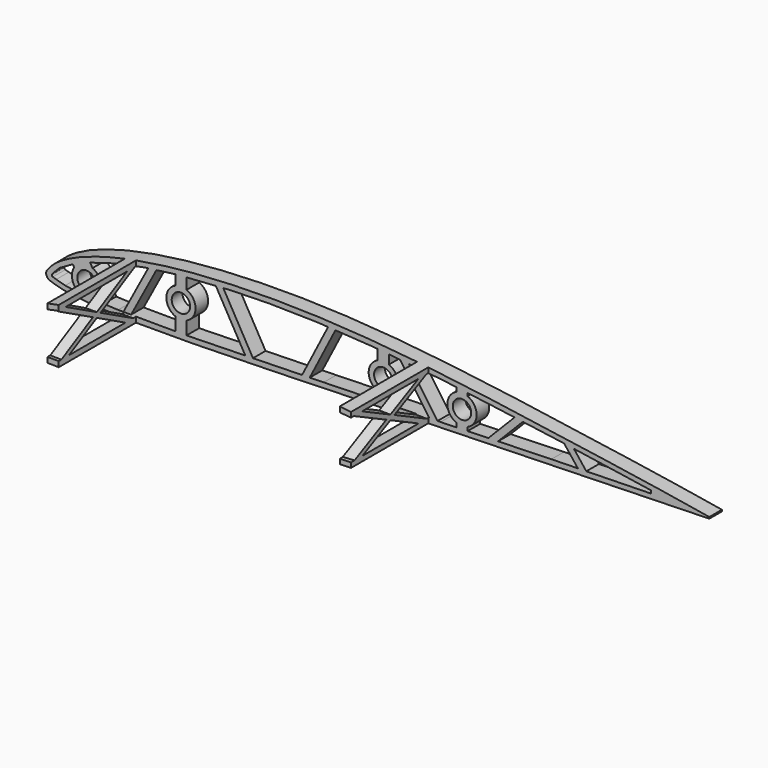
from build123d import *

# Parameters (mm, degrees)
PAD101_DEPTH    = 49.95
POCKET122_DEPTH = 49.95
SKETCH226_W     = 89.545105
SKETCH226_H     = 96.443817
POCKET123_DEPTH = 2.5
SKETCH228_W     = 45
SKETCH228_H     = 60
SKETCH228_W_2   = 125
SKETCH228_W_3   = 130
POCKET124_DEPTH = 50
SKETCH227_R     = 4.1
PAD102_DEPTH    = 7
PAD103_DEPTH    = 5
PAD104_DEPTH    = 5
CHAMFER006_SIZE = 1


with BuildPart() as part:
    # Sketch224 → Pad101 (new body)
    with BuildSketch(Plane.XZ):
        with BuildLine():
            add(Edge.make_bspline(
                [(299.999063, 0.026825), (299.662766, 0.037193), (298.339429, 0.190401), (295.439956, 0.589669), (290.775356, 1.337839), (284.500044, 2.393262), (276.735212, 3.66473), (267.577355, 5.083019), (257.136483, 6.653879), (245.549215, 8.381993), (232.975291, 10.222771), (219.590016, 12.153256), (205.573823, 14.115503), (191.111579, 16.055183), (176.381713, 17.897983), (161.544489, 19.553409), (146.739309, 20.940939), (132.087536, 21.99009), (117.705275, 22.664279), (103.703346, 22.961168), (90.192549, 22.858072), (77.284675, 22.375726), (65.094168, 21.544938), (53.730431, 20.369385), (43.29002, 18.857963), (33.852484, 17.043697), (25.485501, 14.967735), (18.252292, 12.67281), (12.179436, 10.224412), (7.338355, 7.689021), (3.623023, 5.152403), (1.3546, 2.748114), (-0.314638, 0.590402), (0.575789, -1.804065), (3.482069, -2.72942), (7.386052, -3.91761), (13.030922, -4.754284), (20.096342, -5.463024), (28.645402, -5.933379), (38.56853, -6.201185), (49.790194, -6.284208), (62.196701, -6.193111), (75.660953, -5.967607), (90.034637, -5.629522), (105.153445, -5.226063), (120.83724, -4.775199), (136.895942, -4.296045), (153.13493, -3.818601), (169.356828, -3.345106), (185.36574, -2.889379), (200.968742, -2.465331), (215.974941, -2.074889), (230.201502, -1.715375), (243.47905, -1.394255), (255.639348, -1.103787), (266.55871, -0.849968), (276.034544, -0.603524), (284.209012, -0.340437), (290.324953, -0.117215), (295.955653, 0.018504), (297.364702, 0.013759), (300.343856, 0.01512), (300.000055, 0.026794), (299.999063, 0.026825)],
                knots=[0, 0, 0, 0, 1.017748, 3.99659, 8.779341, 15.189917, 23.087031, 32.383824, 42.990765, 54.76218, 67.530065, 81.114584, 95.333435, 109.988542, 124.889458, 139.866624, 154.774633, 169.496697, 183.930349, 197.964304, 211.506735, 224.45797, 236.709214, 248.156653, 258.723012, 268.346769, 276.97692, 284.567784, 291.102108, 296.573756, 300.992679, 304.39163, 306.761357, 308.43213, 311.131254, 315.298227, 320.951765, 328.080828, 336.654655, 346.609821, 357.866231, 370.316475, 383.83025, 398.264023, 413.449345, 429.202773, 445.334827, 461.646891, 477.940787, 494.021253, 509.693044, 524.767168, 539.054704, 552.387642, 564.607107, 575.560217, 585.109622, 593.180747, 599.700326, 604.53767, 607.540683, 608.560842, 608.563842, 608.563842, 608.563842, 608.563842], degree=3))
        make_face()
    extrude(amount=PAD101_DEPTH)

    # Sketch225 (on Face3 of Pad101) → Pocket122 (cut)
    with BuildSketch(Plane.XZ.offset(49.95)):
        with BuildLine():
            Line((2.713263, 0.775372), (3.386703, 1.523026))
            Line((3.386703, 1.523026), (5.993214, 4.179621))
            Line((5.993214, 4.179621), (11.230826, 7.180706))
            Line((11.230826, 7.180706), (18.928726, 10.492708))
            Line((18.928726, 10.492708), (30.015602, 13.804502))
            Line((30.015602, 13.804502), (43.705284, 16.658491))
            Line((43.705284, 16.658491), (58.37534, 18.58366))
            Line((58.37534, 18.58366), (81.932846, 20.199753))
            Line((81.932846, 20.199753), (99.115959, 20.581533))
            Line((99.115959, 20.581533), (120.506348, 20.199753))
            Line((120.506348, 20.199753), (145.772324, 18.655943))
            Line((145.772324, 18.655943), (175.747543, 15.772772))
            Line((175.747543, 15.772772), (200.435547, 12.569891))
            Line((200.435547, 12.569891), (229.384109, 8.602522))
            Line((229.384109, 8.602522), (252.135086, 5.213018))
            Line((252.135086, 5.213018), (269.069916, 2.671427))
            Line((269.069916, 2.671427), (269.069916, 1.39956))
            Line((269.069916, 1.39956), (224.761032, 0.436598))
            Line((224.761032, 0.436598), (175.486649, -1.027315))
            Line((175.486649, -1.027315), (123.47789, -2.412929))
            Line((123.47789, -2.412929), (62.077515, -3.876549))
            Line((62.077515, -3.876549), (32.052879, -3.760909))
            Line((32.052879, -3.760909), (18.887957, -3.18288))
            Line((18.887957, -3.18288), (12.728564, -2.489715))
            Line((12.728564, -2.489715), (8.493419, -1.872198))
            Line((8.493419, -1.872198), (4.562357, -0.768246))
            Line((4.562357, -0.768246), (3.013953, -0.301296))
            ThreePointArc((2.713263, 0.775372), (2.567567, 0.15436), (3.013953, -0.301296))
        make_face()
    extrude(amount=-POCKET122_DEPTH, mode=Mode.SUBTRACT)

    # Sketch226 → Pocket123 (cut, symmetric)
    with BuildSketch(Plane.XY):
        with Locations((339.772552, -30.852761)):
            Rectangle(SKETCH226_W, SKETCH226_H)
    extrude(amount=POCKET123_DEPTH, both=True, mode=Mode.SUBTRACT)

    # Sketch228 → Pocket124 (cut, symmetric)
    with BuildSketch(Plane.XY):
        with Locations((12.5, -37)):
            Rectangle(SKETCH228_W, SKETCH228_H)
        with Locations((102.5, -37)):
            Rectangle(SKETCH228_W_2, SKETCH228_H)
        with Locations((235, -37)):
            Rectangle(SKETCH228_W_3, SKETCH228_H)
    extrude(amount=POCKET124_DEPTH, both=True, mode=Mode.SUBTRACT)

    # Sketch227 (on Face16 of Pocket124) → Pad102 (join)
    with BuildSketch(Plane.XZ.offset(7)):
        Polygon((45.883972, 17.721869), (33.929979, -4.654965), (37.331221, -4.654965), (49.864502, 18.806244), align=None)
        with BuildLine():
            ThreePointArc((12.49229, 6.45183), (11.877033, 0.818423), (15.915785, -3.156789))
            Line((15.915785, -3.156789), (16.615922, -4.582716))
            Line((16.615922, -4.582716), (26.093039, -4.582716))
            Line((23.927186, 0.331954), (26.093039, -4.582716))
            ThreePointArc((23.927186, 0.331954), (24.083233, 5.290038), (20.696327, 8.914374))
            Line((20.696327, 8.914374), (19.191151, 11.361285))
            Line((11.725203, 8.211095), (19.191151, 11.361285))
            Line((12.49229, 6.45183), (11.725203, 8.211095))
        make_face()
        with Locations((18, 3)):
            Circle(SKETCH227_R, mode=Mode.SUBTRACT)
        Polygon((74.837349, 20.968384), (89.206329, -4.249731), (92.659144, -4.249731), (78.184032, 21.154647), align=None)
        Polygon((113.371621, -3.617416), (125.992361, 20.986459), (129.33754, 20.934824), (116.743287, -3.617416), align=None)
        Polygon((156.489991, 19.012594), (171.223801, -2.187052), (175.064011, -2.455857), (160.385949, 18.663577), align=None)
        Polygon((195.991472, -1.145031), (209.190294, 12.320477), (213.439896, 12.370226), (200.19231, -1.145031), align=None)
        Polygon((229.837707, 9.194464), (237.095519, 0), (240.917549, 0), (234.226173, 8.476883), align=None)
        with BuildLine():
            ThreePointArc((57.5, 14), (53.5, 8), (57.5, 2))
            Line((57.5, 2), (57.5, -4.905906))
            Line((57.5, -4.905906), (62.5, -4.905906))
            Line((62.5, -4.905906), (62.5, 2))
            ThreePointArc((62.5, 2), (66.5, 8), (62.5, 14))
            Line((62.5, 14), (62.5, 20.034189))
            Line((62.5, 20.034189), (57.5, 19.556065))
            Line((57.5, 14), (57.5, 19.556065))
        make_face()
        with Locations((60, 8)):
            Circle(SKETCH227_R, mode=Mode.SUBTRACT)
        with BuildLine():
            ThreePointArc((147.5, 14), (143.5, 8), (147.5, 2))
            Line((147.5, 2), (147.5, -2.562403))
            Line((147.5, -2.562403), (152.5, -2.562403))
            Line((152.5, -2.562403), (152.5, 2))
            ThreePointArc((152.5, 2), (156.5, 8), (152.5, 14))
            Line((152.5, 18.960966), (152.5, 14))
            Line((147.5, 19.241402), (152.5, 18.960966))
            Line((147.5, 14), (147.5, 19.241402))
        make_face()
        with Locations((150, 8)):
            Circle(SKETCH227_R, mode=Mode.SUBTRACT)
        with BuildLine():
            ThreePointArc((182.5, 13), (178.5, 7), (182.5, 1))
            Line((182.5, 1), (182.5, -1.799935))
            Line((182.5, -1.799935), (187.5, -1.799935))
            Line((187.5, -1.799935), (187.5, 1))
            ThreePointArc((187.5, 1), (191.5, 7), (187.5, 13))
            Line((187.5, 15.534908), (187.5, 13))
            Line((182.5, 15.936711), (187.5, 15.534908))
            Line((182.5, 13), (182.5, 15.936711))
        make_face()
        with Locations((185, 7)):
            Circle(SKETCH227_R, mode=Mode.SUBTRACT)
    extrude(amount=-PAD102_DEPTH)

    # Sketch229 (on Face17 of Pad102) → Pad103 (join)
    with BuildSketch(Plane(origin=(170, 0, 0), x_dir=(0, 0, 1), z_dir=(1, 0, 0))):
        Polygon((-2.862424, 8.94149), (6.442989, 28.049985), (-2.259602, 45.768041), (-1.567215, 48.792519), (7.5685, 30.334935), (16.796005, 49.309713), (17.609328, 49.309713), (17.609328, 46.4118), (8.669366, 28.053752), (18.467293, 8.207807), (16.796904, 7.181463), (7.587656, 25.787609), (-1.340204, 7.499282), (-2.532652, 7.499282), align=None)
    extrude(amount=-PAD103_DEPTH)

    # Sketch230 (on Face22 of Pad103) → Pad104 (join)
    with BuildSketch(Plane(origin=(35, 0, 0), x_dir=(0, 0, -1), z_dir=(-1, 0, 0))):
        Polygon((-17.041541, 48.311144), (-17.041541, 49.789161), (-15.55834, 49.789161), (5.930288, 8.817383), (5.930288, 7.168498), (4.536703, 7.168498), align=None)
        Polygon((-17.112379, 7.288354), (-16.112644, 7.288354), (5.857902, 48.072935), (5.977349, 49.772485), (4.50171, 49.772485), (-17.112379, 9.649605), align=None)
    extrude(amount=-PAD104_DEPTH)

    # Chamfer006
    chamfer006_edges = [part.edges().sort_by_distance(p)[0] for p in [
        (145.9, 0, 8),
        (55.9, 0, 8),
    ]]
    chamfer(chamfer006_edges, length=CHAMFER006_SIZE)


with BuildPart() as part_1:
    # Body043 placement: moved
    add(part.part.moved(Location((0, -900, 0))))


solid = part_1.part
